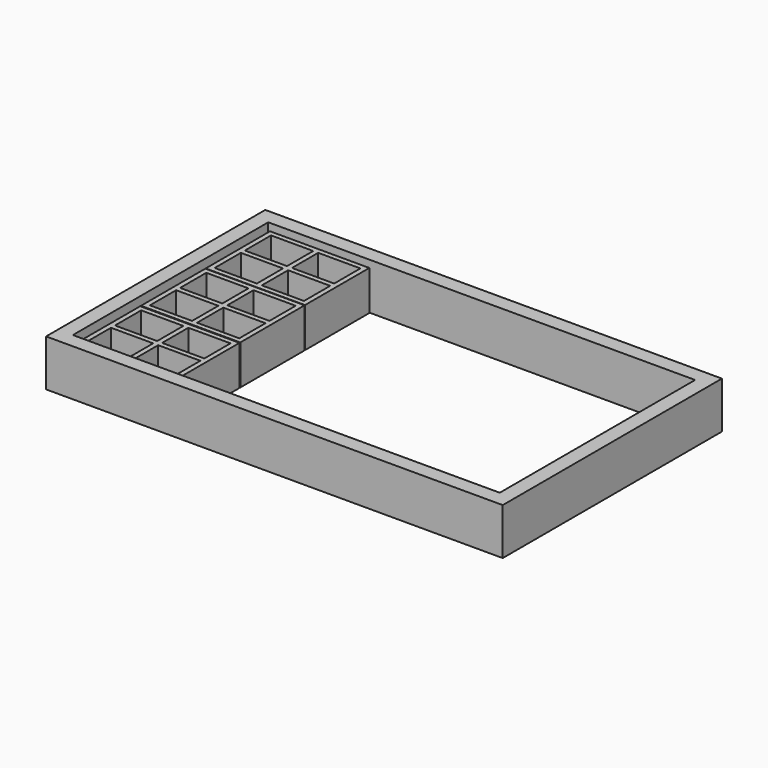
from build123d import *

# Parameters (mm, degrees)
F0_W      = 459.9999934435
F0_H      = 275.9999934435
F0_W_2    = 430
F0_H_2    = 246
F1_DEPTH  = 47
F2_W      = 100
F2_H      = 81
F2_W_2    = 42.5000048876
F2_H_2    = 5
F2_W_3    = 5
F2_H_3    = 33.0000048876
F3_DEPTH  = 40
F4_DEPTH  = 5
F5_W      = 100
F5_H      = 81
F5_W_2    = 42.5000048876
F5_H_2    = 5
F5_W_3    = 5
F5_H_3    = 33.0000048876
F7_DEPTH  = 40
F8_DEPTH  = 5
F6_W      = 100
F6_H      = 81
F6_W_2    = 42.5000048876
F6_H_2    = 5
F6_W_3    = 5
F6_H_3    = 33.0000048876
F9_DEPTH  = 40
F10_DEPTH = 5


with BuildPart() as f1:
    # F0 (on Top) → F1 (new body)
    with BuildSketch(Plane.XY):
        with Locations((-14.3922492862, -139.4351271806)):
            Rectangle(F0_W, F0_H)
        with Locations((-14.3922492862, -139.4351271806)):
            Rectangle(F0_W_2, F0_H_2, mode=Mode.SUBTRACT)
    extrude(amount=F1_DEPTH)


with BuildPart() as f3:
    # F2 (on Top) → F3 (new body)
    with BuildSketch(Plane.XY):
        with Locations((-177.133394298, -221.0147144079)):
            Rectangle(F2_W, F2_H)
        Polygon((-174.633394298, -185.5147095203), (-132.1333894105, -185.5147095203), (-132.1333894105, -218.5147144079), (-132.1333894105, -223.5147144079), (-132.1333894105, -256.5147192955), (-174.633394298, -256.5147192955), (-179.633394298, -256.5147192955), (-222.1333991856, -256.5147192955), (-222.1333991856, -223.5147144079), (-222.1333991856, -218.5147144079), (-222.1333991856, -185.5147095203), (-179.633394298, -185.5147095203), align=None, mode=Mode.SUBTRACT)
        with Locations((-200.8833967418, -221.0147144079)):
            Rectangle(F2_W_2, F2_H_2)
        with Locations((-153.3833918543, -221.0147144079)):
            Rectangle(F2_W_2, F2_H_2)
        with Locations((-177.133394298, -202.0147119641)):
            Rectangle(F2_W_3, F2_H_3)
        with Locations((-177.133394298, -240.0147168517)):
            Rectangle(F2_W_3, F2_H_3)
        with Locations((-177.133394298, -221.0147144079)):
            Rectangle(F2_W_3, F2_H_2)
    extrude(amount=F3_DEPTH)

    # F2 (on Top) → F4 (join)
    with BuildSketch(Plane.XY):
        with Locations((-153.3833918543, -202.0147119641)):
            Rectangle(F2_W_2, F2_H_3)
        with Locations((-153.3833918543, -240.0147168517)):
            Rectangle(F2_W_2, F2_H_3)
        with Locations((-200.8833967418, -240.0147168517)):
            Rectangle(F2_W_2, F2_H_3)
        with Locations((-200.8833967418, -202.0147119641)):
            Rectangle(F2_W_2, F2_H_3)
    extrude(amount=F4_DEPTH)


with BuildPart() as f7:
    # F5 (on face) → F7 (new body)
    with BuildSketch(Plane.XY):
        with Locations((-177.1052449942, -139.0392463207)):
            Rectangle(F5_W, F5_H)
        Polygon((-174.6052449942, -103.5392414331), (-132.1052401066, -103.5392414331), (-132.1052401066, -136.5392463207), (-132.1052401066, -141.5392463207), (-132.1052401066, -174.5392512083), (-174.6052449942, -174.5392512083), (-179.6052449942, -174.5392512083), (-222.1052498817, -174.5392512083), (-222.1052498817, -141.5392463207), (-222.1052498817, -136.5392463207), (-222.1052498817, -103.5392414331), (-179.6052449942, -103.5392414331), align=None, mode=Mode.SUBTRACT)
        with Locations((-200.855247438, -139.0392463207)):
            Rectangle(F5_W_2, F5_H_2)
        with Locations((-177.1052449942, -139.0392463207)):
            Rectangle(F5_W_3, F5_H_2)
        with Locations((-153.3552425504, -139.0392463207)):
            Rectangle(F5_W_2, F5_H_2)
        with Locations((-177.1052449942, -158.0392487645)):
            Rectangle(F5_W_3, F5_H_3)
        with Locations((-177.1052449942, -120.0392438769)):
            Rectangle(F5_W_3, F5_H_3)
    extrude(amount=F7_DEPTH)

    # F5 (on face) → F8 (join)
    with BuildSketch(Plane.XY):
        with Locations((-200.855247438, -120.0392438769)):
            Rectangle(F5_W_2, F5_H_3)
        with Locations((-200.855247438, -158.0392487645)):
            Rectangle(F5_W_2, F5_H_3)
        with Locations((-153.3552425504, -158.0392487645)):
            Rectangle(F5_W_2, F5_H_3)
        with Locations((-153.3552425504, -120.0392438769)):
            Rectangle(F5_W_2, F5_H_3)
    extrude(amount=F8_DEPTH)


with BuildPart() as f9:
    # F6 (on Top) → F9 (new body)
    with BuildSketch(Plane.XY):
        with Locations((-177.1173298359, -57.5240424871)):
            Rectangle(F6_W, F6_H)
        Polygon((-174.6173298359, -22.0240375996), (-132.1173249483, -22.0240375996), (-132.1173249483, -55.0240424871), (-132.1173249483, -60.0240424871), (-132.1173249483, -93.0240473747), (-174.6173298359, -93.0240473747), (-179.6173298359, -93.0240473747), (-222.1173347235, -93.0240473747), (-222.1173347235, -60.0240424871), (-222.1173347235, -55.0240424871), (-222.1173347235, -22.0240375996), (-179.6173298359, -22.0240375996), align=None, mode=Mode.SUBTRACT)
        with Locations((-153.3673273921, -57.5240424871)):
            Rectangle(F6_W_2, F6_H_2)
        with Locations((-177.1173298359, -57.5240424871)):
            Rectangle(F6_W_3, F6_H_2)
        with Locations((-177.1173298359, -38.5240400434)):
            Rectangle(F6_W_3, F6_H_3)
        with Locations((-177.1173298359, -76.5240449309)):
            Rectangle(F6_W_3, F6_H_3)
        with Locations((-200.8673322797, -57.5240424871)):
            Rectangle(F6_W_2, F6_H_2)
    extrude(amount=F9_DEPTH)

    # F6 (on Top) → F10 (join)
    with BuildSketch(Plane.XY):
        with Locations((-153.3673273921, -76.5240449309)):
            Rectangle(F6_W_2, F6_H_3)
        with Locations((-153.3673273921, -38.5240400434)):
            Rectangle(F6_W_2, F6_H_3)
        with Locations((-200.8673322797, -38.5240400434)):
            Rectangle(F6_W_2, F6_H_3)
        with Locations((-200.8673322797, -76.5240449309)):
            Rectangle(F6_W_2, F6_H_3)
    extrude(amount=F10_DEPTH)


solid = Compound([f1.part, f3.part, f7.part, f9.part])
